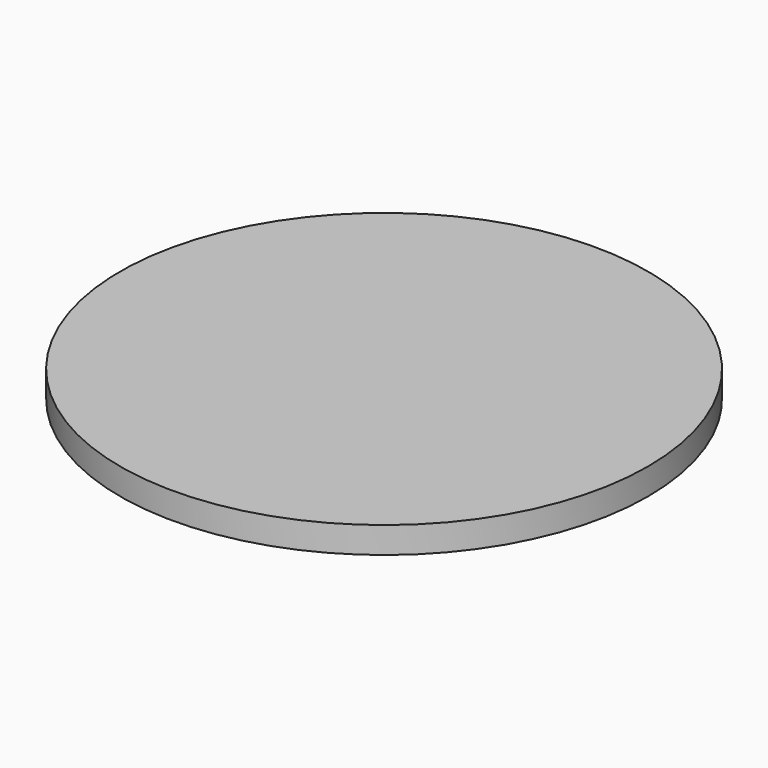
from build123d import *

# Parameters (mm, degrees)
F0_R     = 20
F0_R_2   = 1.5
F1_DEPTH = 2
F2_DEPTH = 2


with BuildPart() as f1:
    # F0 (on Top) → F1 (new body)
    with BuildSketch(Plane.XY):
        Circle(F0_R)
        with Locations((-3.5, -2.5)):
            Circle(F0_R_2, mode=Mode.SUBTRACT)
        with Locations((3.5, -2.5)):
            Circle(F0_R_2, mode=Mode.SUBTRACT)
        with Locations((-3.5, 2.5)):
            Circle(F0_R_2, mode=Mode.SUBTRACT)
        with Locations((3.5, 2.5)):
            Circle(F0_R_2, mode=Mode.SUBTRACT)
        with Locations((3.5, 2.5)):
            Circle(F0_R_2)
        with Locations((-3.5, 2.5)):
            Circle(F0_R_2)
        with Locations((3.5, -2.5)):
            Circle(F0_R_2)
        with Locations((-3.5, -2.5)):
            Circle(F0_R_2)
    extrude(amount=F1_DEPTH)

    # F0 (on Top) → F2 (join)
    with BuildSketch(Plane.XY):
        with Locations((-3.5, 2.5)):
            Circle(F0_R_2)
        with Locations((-3.5, -2.5)):
            Circle(F0_R_2)
        with Locations((3.5, -2.5)):
            Circle(F0_R_2)
        with Locations((3.5, 2.5)):
            Circle(F0_R_2)
    extrude(amount=-F2_DEPTH)


solid = f1.part
